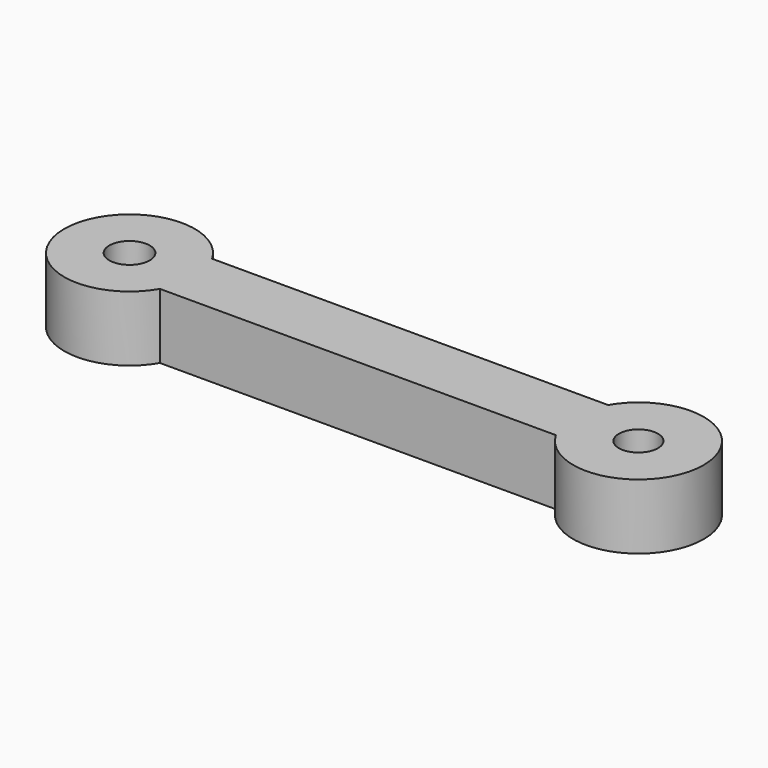
from build123d import *

# Parameters (mm, degrees)
SKETCH_R      = 1.55
SKETCH_R_2    = 1.5
EXTRUDE_DEPTH = 5


with BuildPart() as part:
    # Sketch → Extrude (new body)
    with BuildSketch(Plane.XY):
        with BuildLine():
            ThreePointArc((-15.169873, 2.5), (-24.5, 0), (-15.169873, -2.5))
            Line((15.169873, -2.5), (-15.169873, -2.5))
            ThreePointArc((15.169873, -2.5), (24.5, 0), (15.169873, 2.5))
            Line((-15.169873, 2.5), (15.169873, 2.5))
        make_face()
        with Locations((-19.5, 0)):
            Circle(SKETCH_R, mode=Mode.SUBTRACT)
        with Locations((19.5, 0)):
            Circle(SKETCH_R_2, mode=Mode.SUBTRACT)
    extrude(amount=EXTRUDE_DEPTH)


solid = part.part
